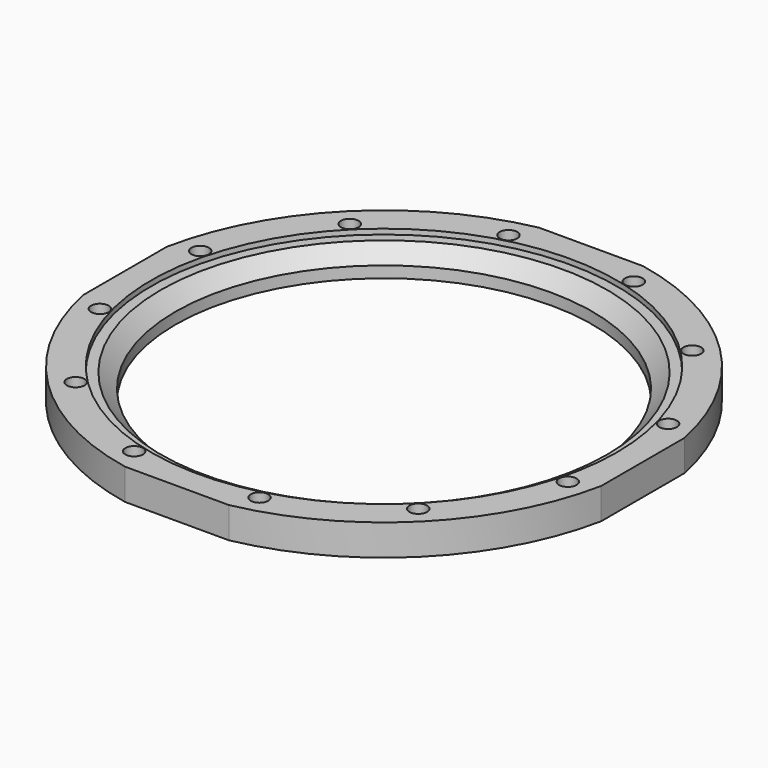
from build123d import *

# Parameters (mm, degrees)
SKETCH013_R           = 0.2
SKETCH_R              = 1.7
POCKET_DEPTH          = 294.750026
POLARPATTERN_COUNT    = 12
CHAMFER_SIZE          = 1.5
CHAMFER001_SIZE       = 1.5
CHAMFER002_SIZE       = 1.5
CHAMFER003_SIZE       = 1.5
CHAMFER004_SIZE       = 1.5
CHAMFER005_SIZE       = 1.5
CHAMFER006_SIZE       = 1.5
CHAMFER007_SIZE       = 1.5
CHAMFER008_SIZE       = 1.5
CHAMFER009_SIZE       = 1.5
SKETCH014_R           = 1.5
POCKET001_DEPTH       = 5
POLARPATTERN001_COUNT = 12
SKETCH015_W           = 130
SKETCH015_H           = 130
SKETCH015_W_2         = 100
SKETCH015_H_2         = 100
POCKET002_DEPTH       = 6.001
CHAMFER010_SIZE       = 1.5
CHAMFER011_SIZE       = 1.5


with BuildPart() as part:
    # Sketch013 → Revolution (revolve)
    with BuildSketch(Plane.XZ):
        Polygon((40.3, 0), (40.3, 2.198781), (43.101219, 5), (45, 5), (45, 6), (51, 6), (51, 0), align=None)
        with Locations((43.686525, 2.313509)):
            Circle(SKETCH013_R, mode=Mode.SUBTRACT)
    revolve(axis=Axis((0, 0, 0), (0, 0, 1)))

    # Sketch → Pocket (cut, through all)
    with BuildSketch(Plane(origin=(0, 0, 0), x_dir=(1, 0, 0), z_dir=(0, 0, -1))):
        with Locations((45.205329, 12.112731)):
            Circle(SKETCH_R)
    pocket = extrude(amount=-POCKET_DEPTH, mode=Mode.SUBTRACT)

    # PolarPattern: Pocket ×12 about axis
    polarpattern_axis = Axis((0, 0, 0), (0, 0, -1))
    for i in range(1, POLARPATTERN_COUNT):
        add(pocket.rotate(polarpattern_axis, i * 360 / POLARPATTERN_COUNT), mode=Mode.SUBTRACT)

    # Chamfer
    chamfer_edges = [part.edges().sort_by_distance(p)[0] for p in [
        (11.262731, -43.733085, 0),
    ]]
    chamfer(chamfer_edges, length=CHAMFER_SIZE)

    # Chamfer001
    chamfer001_edges = [part.edges().sort_by_distance(p)[0] for p in [
        (31.620354, -32.242597, 0),
    ]]
    chamfer(chamfer001_edges, length=CHAMFER001_SIZE)

    # Chamfer002
    chamfer002_edges = [part.edges().sort_by_distance(p)[0] for p in [
        (-43.505329, 12.112731, 0),
    ]]
    chamfer(chamfer002_edges, length=CHAMFER002_SIZE)

    # Chamfer003
    chamfer003_edges = [part.edges().sort_by_distance(p)[0] for p in [
        (43.733085, 11.262731, 0),
    ]]
    chamfer(chamfer003_edges, length=CHAMFER003_SIZE)

    # Chamfer004
    chamfer004_edges = [part.edges().sort_by_distance(p)[0] for p in [
        (32.242597, 31.620354, 0),
    ]]
    chamfer(chamfer004_edges, length=CHAMFER004_SIZE)

    # Chamfer005
    chamfer005_edges = [part.edges().sort_by_distance(p)[0] for p in [
        (-43.733085, -11.262731, 0),
    ]]
    chamfer(chamfer005_edges, length=CHAMFER005_SIZE)

    # Chamfer006
    chamfer006_edges = [part.edges().sort_by_distance(p)[0] for p in [
        (12.112731, 43.505329, 0),
    ]]
    chamfer(chamfer006_edges, length=CHAMFER006_SIZE)

    # Chamfer007
    chamfer007_edges = [part.edges().sort_by_distance(p)[0] for p in [
        (-32.242597, -31.620354, 0),
    ]]
    chamfer(chamfer007_edges, length=CHAMFER007_SIZE)

    # Chamfer008
    chamfer008_edges = [part.edges().sort_by_distance(p)[0] for p in [
        (-31.620354, 32.242597, 0),
    ]]
    chamfer(chamfer008_edges, length=CHAMFER008_SIZE)

    # Chamfer009
    chamfer009_edges = [part.edges().sort_by_distance(p)[0] for p in [
        (-11.262731, 43.733085, 0),
    ]]
    chamfer(chamfer009_edges, length=CHAMFER009_SIZE)

    # Sketch014 → Pocket001 (cut)
    with BuildSketch(Plane(origin=(0, 0, 0), x_dir=(1, 0, 0), z_dir=(0, 0, -1))):
        with Locations((46.8, 0)):
            Circle(SKETCH014_R)
    pocket001 = extrude(amount=-POCKET001_DEPTH, mode=Mode.SUBTRACT)

    # PolarPattern001: Pocket001 ×12 about axis
    polarpattern001_axis = Axis((0, 0, 0), (0, 0, -1))
    for i in range(1, POLARPATTERN001_COUNT):
        add(pocket001.rotate(polarpattern001_axis, i * 360 / POLARPATTERN001_COUNT), mode=Mode.SUBTRACT)

    # Sketch015 → Pocket002 (cut, through all)
    with BuildSketch(Plane(origin=(0, 0, 6), x_dir=(-1, 0, 0), z_dir=(0, 0, 1))):
        Rectangle(SKETCH015_W, SKETCH015_H)
        Rectangle(SKETCH015_W_2, SKETCH015_H_2, mode=Mode.SUBTRACT)
    extrude(amount=-POCKET002_DEPTH, mode=Mode.SUBTRACT)

    # Chamfer010
    chamfer010_edges = [part.edges().sort_by_distance(p)[0] for p in [
        (-12.112731, -43.505329, 0),
    ]]
    chamfer(chamfer010_edges, length=CHAMFER010_SIZE)

    # Chamfer011
    chamfer011_edges = [part.edges().sort_by_distance(p)[0] for p in [
        (43.505329, -12.112731, 0),
    ]]
    chamfer(chamfer011_edges, length=CHAMFER011_SIZE)


solid = part.part
